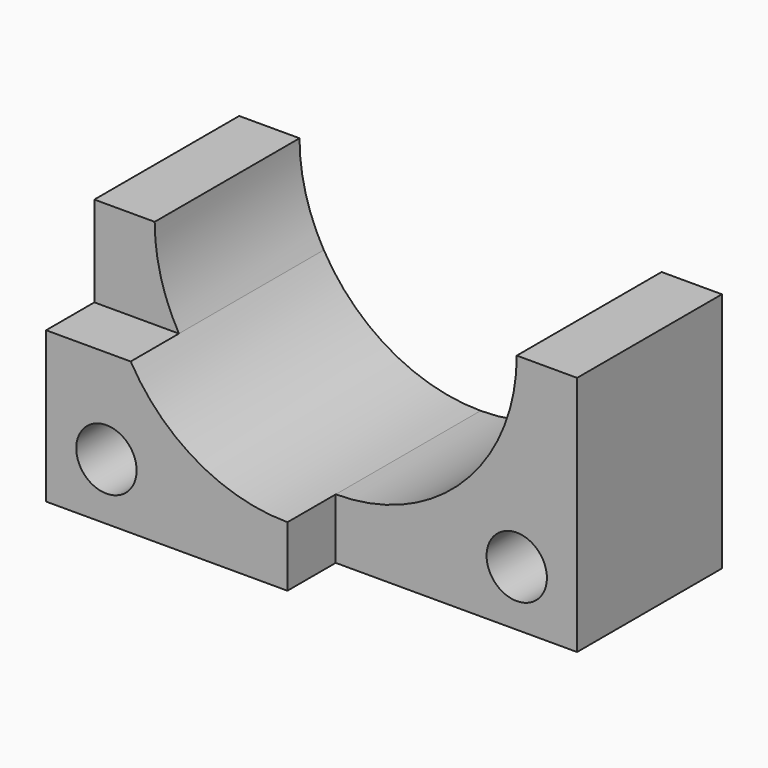
from build123d import *

# Parameters (mm, degrees)
F0_R     = 5
F1_DEPTH = 30
F2_DEPTH = 40


with BuildPart() as f1:
    # F0 (on Front) → F1 (new body)
    with BuildSketch(Plane.XZ):
        with BuildLine():
            Line((-61.183798, -31.56141), (-71.183798, -31.56141))
            Line((-71.183798, -31.56141), (-71.183798, -46.56141))
            Line((-71.183798, -46.56141), (-57.16456, -46.56141))
            ThreePointArc((-57.16456, -46.56141), (-60.161573, -39.325981), (-61.183798, -31.56141))
        make_face()
        with BuildLine():
            ThreePointArc((-1.183798, -31.56141), (-9.970594, -52.774613), (-31.183798, -61.56141))
            Line((-31.183798, -61.56141), (-31.183798, -71.56141))
            Line((-31.183798, -71.56141), (8.816202, -71.56141))
            Line((8.816202, -71.56141), (8.816202, -31.56141))
            Line((8.816202, -31.56141), (-1.183798, -31.56141))
        make_face()
        with Locations((-1.183798, -62.384936)):
            Circle(F0_R, mode=Mode.SUBTRACT)
    extrude(amount=F1_DEPTH)


with BuildPart() as f2:
    # F0 (on Front) → F2 (new body)
    with BuildSketch(Plane.XZ):
        with BuildLine():
            Line((-57.16456, -46.56141), (-71.183798, -46.56141))
            Line((-71.183798, -46.56141), (-71.183798, -71.56141))
            Line((-71.183798, -71.56141), (-31.183798, -71.56141))
            Line((-31.183798, -71.56141), (-31.183798, -61.56141))
            ThreePointArc((-31.183798, -61.56141), (-46.183798, -57.542172), (-57.16456, -46.56141))
        make_face()
        with Locations((-61.183798, -62.149643)):
            Circle(F0_R, mode=Mode.SUBTRACT)
    extrude(amount=F2_DEPTH)


solid = Compound([f1.part, f2.part])
